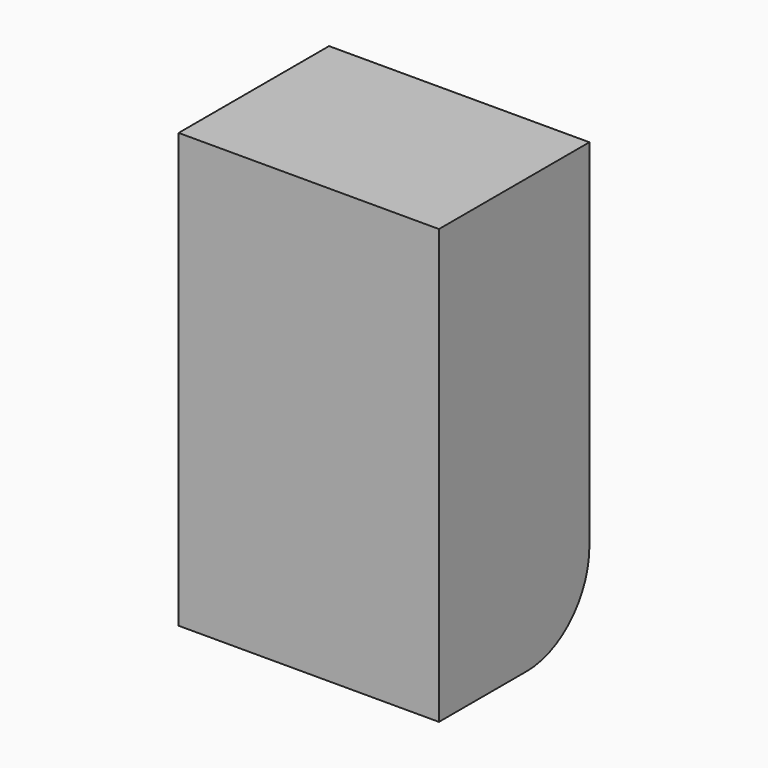
from build123d import *

# Parameters (mm, degrees)
F0_W     = 65
F0_H     = 150
F1_DEPTH = 90
F2_R     = 27


with BuildPart() as f1:
    # F0 (on Right) → F1 (new body)
    with BuildSketch(Plane.YZ):
        Rectangle(F0_W, F0_H)
    extrude(amount=F1_DEPTH)

    # F2
    f2_edges = [f1.edges().sort_by_distance(p)[0] for p in [
        (45, 32.5, -75),
    ]]
    fillet(f2_edges, radius=F2_R)


solid = f1.part
